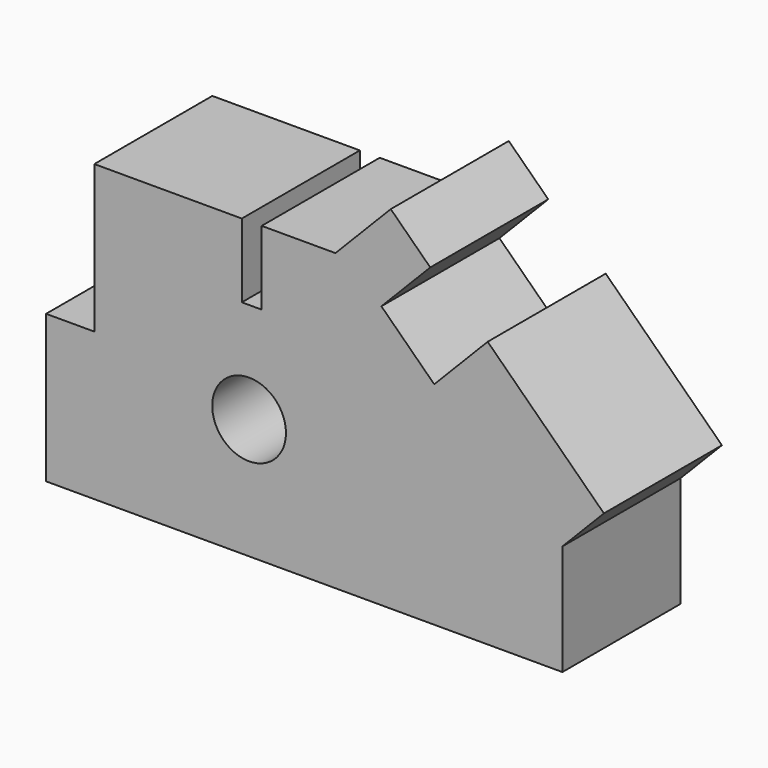
from build123d import *

# Parameters (mm, degrees)
F0_R     = 5
F1_DEPTH = 20


with BuildPart() as f1:
    # F0 (on Front) → F1 (new body)
    with BuildSketch(Plane.XZ):
        Polygon((-20.192307, 31.153847), (-40.192307, 31.153847), (-40.192307, 11.153847), (-46.730768, 11.153847), (-46.730768, -8.846153), (23.269232, -8.846153), (23.269232, 6.153847), (28.897234, 11.926157), (13.140518, 27.288954), (5.890439, 19.852975), (-1.269562, 26.833976), (5.353316, 33.626672), (0, 38.846155), (-7.5, 31.153847), (-17.5, 31.153847), (-17.5, 21.153847), (-20.192307, 21.153847), align=None)
        with Locations((-19.207239, 7.49516)):
            Circle(F0_R, mode=Mode.SUBTRACT)
    extrude(amount=F1_DEPTH)


solid = f1.part
